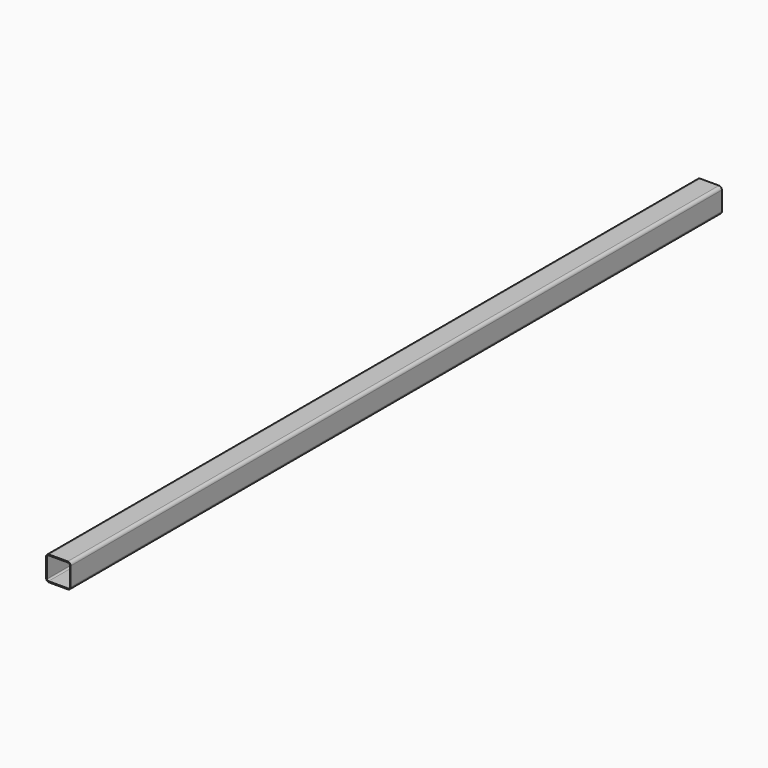
from build123d import *

# Parameters (mm, degrees)
F1_DEPTH = 1650


with BuildPart() as f1:
    # F0 (on Front) → F1 (new body)
    with BuildSketch(Plane.XZ):
        with BuildLine():
            Line((19, 25), (0, 25))
            Line((0, 25), (-19, 25))
            ThreePointArc((-19, 25), (-23.242641, 23.242641), (-25, 19))
            Line((-25, 19), (-25, -19))
            ThreePointArc((-25, -19), (-23.242641, -23.242641), (-19, -25))
            Line((-19, -25), (0, -25))
            Line((0, -25), (19, -25))
            ThreePointArc((19, -25), (23.242641, -23.242641), (25, -19))
            Line((25, -19), (25, 19))
            ThreePointArc((25, 19), (23.242641, 23.242641), (19, 25))
        make_face()
        with BuildLine():
            Line((-20, 23), (0, 23))
            Line((0, 23), (20, 23))
            ThreePointArc((20, 23), (22.12132, 22.12132), (23, 20))
            Line((23, 20), (23, -20))
            ThreePointArc((23, -20), (22.12132, -22.12132), (20, -23))
            Line((20, -23), (0, -23))
            Line((0, -23), (-20, -23))
            ThreePointArc((-20, -23), (-22.12132, -22.12132), (-23, -20))
            Line((-23, -20), (-23, 20))
            ThreePointArc((-23, 20), (-22.12132, 22.12132), (-20, 23))
        make_face(mode=Mode.SUBTRACT)
    extrude(amount=F1_DEPTH)


solid = f1.part
